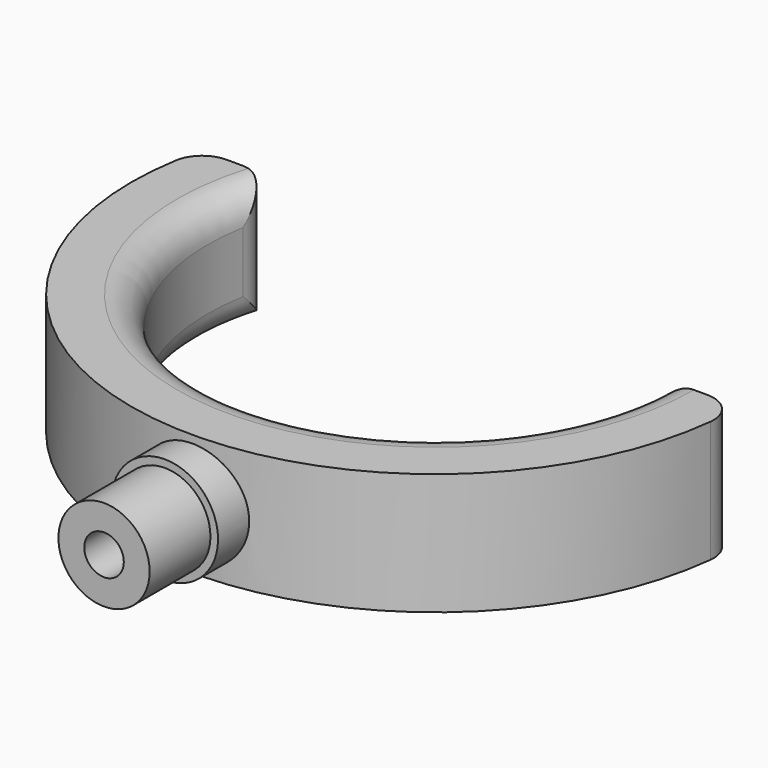
from build123d import *

# Parameters (mm, degrees)
PAD_DEPTH     = 8
SKETCH002_R   = 7
PAD001_DEPTH  = 4.5
POCKET_DEPTH  = 5
SKETCH005_R   = 6
SKETCH005_R_2 = 2.6
PAD002_DEPTH  = 10
FILLET_R      = 4


with BuildPart() as part:
    # Sketch001 → Pad (new body, symmetric)
    with BuildSketch(Plane.XY):
        with BuildLine():
            ThreePointArc((-28.284271, 50), (-5.073059, 10.432043), (30, 40))
            Line((30, 40), (40, 40))
            ThreePointArc((-38.729833, 50), (-5.040172, 0.318812), (40, 40))
            Line((-38.729833, 50), (-28.284271, 50))
        make_face()
    extrude(amount=PAD_DEPTH, both=True)

    # Sketch002 → Pad001 (join, symmetric)
    with BuildSketch(Plane.XZ):
        Circle(SKETCH002_R)
    extrude(amount=PAD001_DEPTH, both=True)

    # Sketch004 (on Face8 of Pad001) → Pocket (cut)
    with BuildSketch(Plane.XZ.offset(4.5)):
        with BuildLine():
            Line((-1.532971, 2.1), (1.532971, 2.1))
            ThreePointArc((1.532971, -2.1), (2.6, 0), (1.532971, 2.1))
            Line((-1.532971, -2.1), (1.532971, -2.1))
            ThreePointArc((-1.532971, 2.1), (-2.6, 0), (-1.532971, -2.1))
        make_face()
    extrude(amount=-POCKET_DEPTH, mode=Mode.SUBTRACT)

    # Sketch005 (on Face8 of Pocket) → Pad002 (join)
    with BuildSketch(Plane.XZ.offset(4.5)):
        Circle(SKETCH005_R)
        Circle(SKETCH005_R_2, mode=Mode.SUBTRACT)
    extrude(amount=PAD002_DEPTH)

    # Fillet
    fillet_edges = [part.edges().sort_by_distance(p)[0] for p in [
        (-28.284271, 50, 0),
        (30, 40, 0),
        (-5.073059, 10.432043, -8),
        (-5.073059, 10.432043, 8),
        (-38.729833, 50, 0),
        (40, 40, 0),
    ]]
    fillet(fillet_edges, radius=FILLET_R)


solid = part.part
